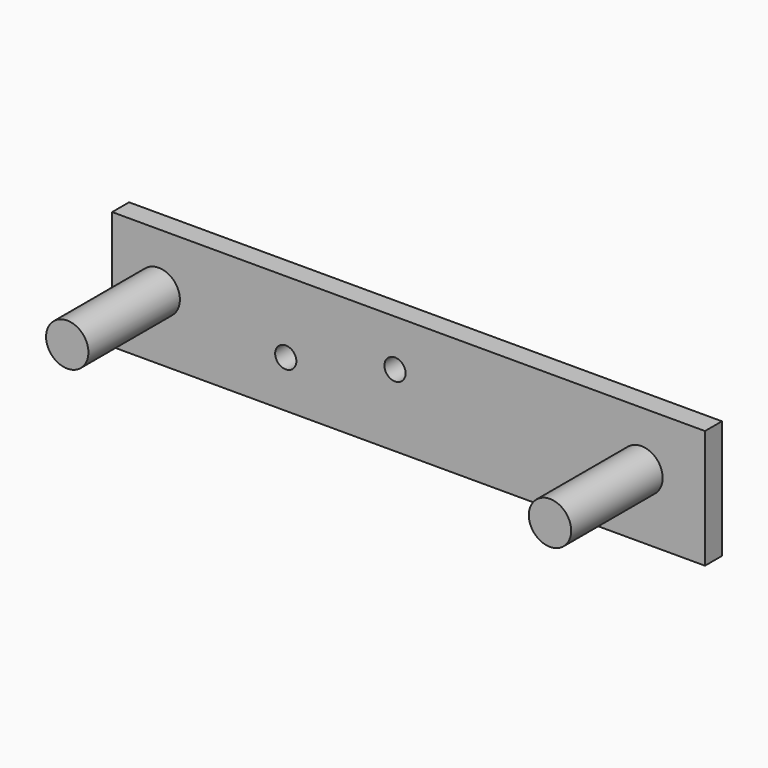
from build123d import *

# Parameters (mm, degrees)
F0_W     = 88.9
F0_H     = 17.78
F0_R     = 1.5875
F0_R_2   = 3.175
F1_DEPTH = 3.175
F2_R     = 3.175
F3_DEPTH = 20.32


with BuildPart() as f1:
    # F0 (on Front) → F1 (new body)
    with BuildSketch(Plane.XZ):
        with Locations((-0.217237, -27.299299)):
            Rectangle(F0_W, F0_H)
        with Locations((-18.632237, -29.130639)):
            Circle(F0_R, mode=Mode.SUBTRACT)
        with Locations((-37.682237, -26.664299)):
            Circle(F0_R_2, mode=Mode.SUBTRACT)
        with Locations((-2.249237, -25.394299)):
            Circle(F0_R, mode=Mode.SUBTRACT)
        with Locations((34.707763, -26.664299)):
            Circle(F0_R_2, mode=Mode.SUBTRACT)
    extrude(amount=F1_DEPTH)

    # F2 (on face) → F3 (join)
    with BuildSketch(Plane(origin=(0, 0, 0), x_dir=(-1, 0, 0), z_dir=(0, 1, 0))):
        with Locations((-34.707763, -26.664299)):
            Circle(F2_R)
        with Locations((37.682237, -26.664299)):
            Circle(F2_R)
    extrude(amount=-F3_DEPTH)


solid = f1.part
